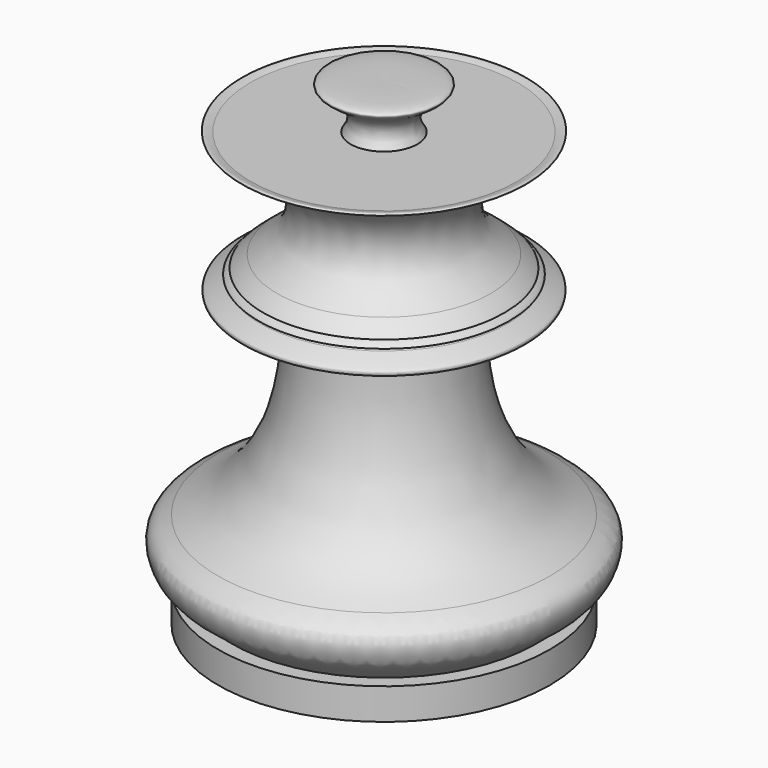
from build123d import *


with BuildPart() as f1:
    # F0 (on Front) → F1 (revolve)
    with BuildSketch(Plane.XZ):
        with BuildLine():
            add(Edge.make_bspline(
                [(4.9218754284, 20.9144587706), (4.6716887831, 21.2816869985), (4.0864304191, 22.1407392136), (4.2195611189, 24.8780871546), (11.0248741632, 27.8524868056), (4.0749805931, 27.7923476684), (0, 27.7570858598)],
                knots=[0, 0, 0, 0, 0.1547261776, 0.3619489339, 0.6258869743, 1, 1, 1, 1], degree=3))
            Line((0, 27.7570858598), (0, -42.873762548))
            Line((0, -42.873762548), (24.4610533118, -42.873762548))
            Line((24.4610533118, -42.873762548), (24.4610533118, -38.2537171245))
            Line((24.4610533118, -38.2537171245), (22.3201327026, -38.2537171245))
            add(Edge.make_bspline(
                [(22.3201327026, -38.2537171245), (23.0243042725, -37.6306955946), (24.435863224, -36.3818073193), (26.8259168324, -34.8856908752), (28.0229060228, -30.5782633165), (25.6470899649, -29.3454512014), (24.4610533118, -28.7300162017)],
                knots=[0, 0, 0, 0, 0.2340672069, 0.4692033524, 0.7350197725, 1, 1, 1, 1], degree=3))
            add(Edge.make_bspline(
                [(24.4610533118, -28.7300162017), (22.9790243965, -28.001807449), (19.8344494891, -26.4566911914), (15.6698073284, -21.3694150668), (13.2448217707, -15.6490822772), (11.7998968074, -8.5071928141), (11.8858398427, -2.9191883903), (11.9307367131, 0)],
                knots=[0, 0, 0, 0, 0.1748246458, 0.3709436358, 0.5643172367, 0.7723981643, 1, 1, 1, 1], degree=3))
            Line((11.9307367131, 0), (20.6401385367, 0))
            add(Edge.make_bspline(
                [(20.6401385367, 0), (20.7185266102, 0.0582976443), (20.8829702445, 0.1805952856), (20.9005949774, 0.5979952362), (20.6055559308, 0.8835273832), (19.2672067116, 1.5288361306), (18.2798411697, 2.0049118903)],
                knots=[0, 0, 0, 0, 0.1614962961, 0.3387892654, 0.5121925683, 1, 1, 1, 1], degree=3))
            add(Edge.make_bspline(
                [(18.2798411697, 2.0049118903), (18.0061000089, 2.1431789113), (17.7323588481, 2.2814459323), (17.4586176872, 2.4197129533)],
                knots=[0, 0, 0, 0, 0.9200369178, 0.9200369178, 0.9200369178, 0.9200369178], degree=3))
            add(Edge.make_bspline(
                [(17.4586176872, 2.4197129533), (17.9408564399, 2.3637785771), (18.7148994926, 2.2739981208), (18.2434191386, 2.8222915874), (17.7572924025, 3.0742690882), (17.4586176872, 3.2290832605)],
                knots=[0, 0, 0, 0, 0.3892203826, 0.6247389523, 1, 1, 1, 1], degree=3))
            add(Edge.make_bspline(
                [(17.4586176872, 3.2290832605), (17.598199979, 3.2038955895), (18.1592609756, 3.1026519459), (16.7803215173, 4.2222764844), (15.7444383949, 5.063357763)],
                knots=[0, 0, 0, 0, 0.2487827395, 1, 1, 1, 1], degree=3))
            add(Edge.make_bspline(
                [(15.7444383949, 5.063357763), (14.1598931259, 6.1832052794), (10.7489816244, 8.5938027222), (11.1671935613, 16.1965014544), (17.9743484643, 20.2333114902), (19.6873360939, 20.9144587706)],
                knots=[0, 0, 0, 0, 0.2695067012, 0.580143417, 0.835077458, 0.835077458, 0.835077458, 0.835077458], degree=3))
            Line((19.6873360939, 20.9144587706), (15.9102473408, 20.9144587706))
            Line((15.9102473408, 20.9144587706), (4.9218754284, 20.9144587706))
        make_face()
    revolve(axis=Axis((0, 0, 1.7169322819), (0, 0, -1)))


with BuildPart() as f1b:
    # F0 (on Front) → F1, piece 2 (revolve)
    with BuildSketch(Plane.XZ):
        with BuildLine():
            add(Edge.make_bspline(
                [(19.6873360939, 20.9144587706), (20.2781758314, 21.1493985177), (20.9551447888, 21.3061918007), (20.9585159122, 21.0336684247), (20.9289559663, 20.9144587706)],
                knots=[0.835077458, 0.835077458, 0.835077458, 0.835077458, 0.9230087186, 0.9736427683, 0.9736427683, 0.9736427683, 0.9736427683], degree=3))
            Line((19.6873360939, 20.9144587706), (20.9289559663, 20.9144587706))
        make_face()
    revolve(axis=Axis((0, 0, 1.7169322819), (0, 0, -1)))


solid = Compound([f1.part, f1b.part])
